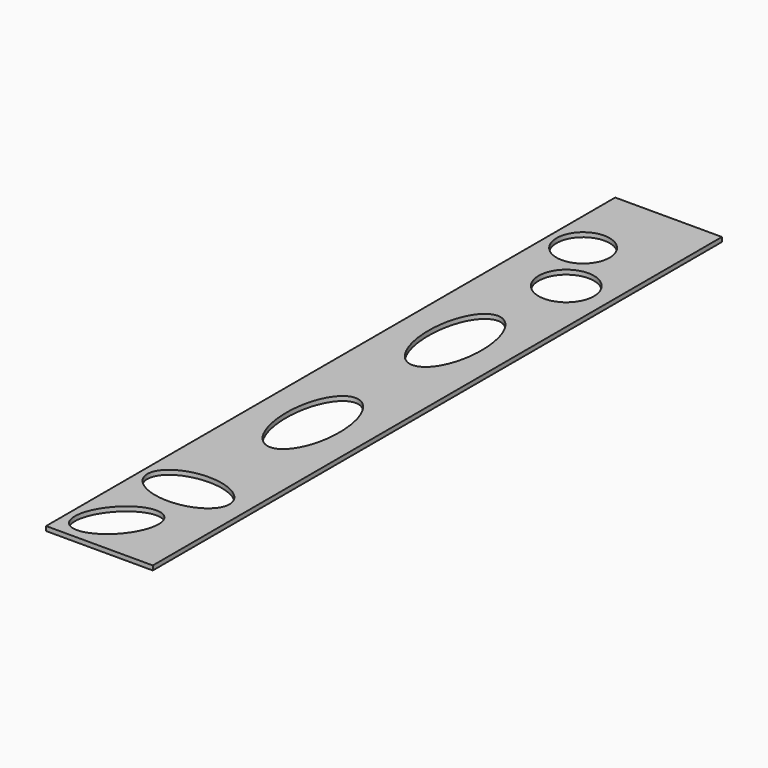
from build123d import *

# Parameters (mm, degrees)
F1_DEPTH = 25
F2_R     = 149.2178316073
F2_R_2   = 155.5206499211
F3_DEPTH = 25


with BuildPart() as f1:
    # F0 (on Top) → F1 (new body)
    with BuildSketch(Plane.XY):
        with BuildLine():
            Line((0, 3000), (0, 0))
            Line((0, 0), (600, 0))
            Line((600, 0), (600, 186.544239521))
            ThreePointArc((600, 186.544239521), (450, 336.544239521), (600, 486.544239521))
            Line((600, 486.544239521), (600, 583.9368104935))
            ThreePointArc((600, 583.9368104935), (450, 733.9368104935), (600, 883.9368104935))
            Line((600, 883.9368104935), (600, 4000))
            Line((600, 4000), (0, 4000))
            Line((0, 4000), (0, 3100))
            Line((0, 3100), (150, 3100))
            ThreePointArc((150, 3100), (250, 3000), (150, 2900))
            ThreePointArc((150, 2900), (79.2893218813, 2929.2893218813), (50, 3000))
            Line((50, 3000), (0, 3000))
        make_face()
        with BuildLine():
            add(Edge.make_bspline(
                [(300, 1800), (40.1923788647, 1800), (170.0961894323, 1350), (300, 900), (429.9038105677, 1350), (559.8076211353, 1800), (300, 1800)],
                knots=[0, 0, 0, 2.0943951024, 2.0943951024, 4.1887902048, 4.1887902048, 6.2831853072, 6.2831853072, 6.2831853072], degree=2, weights=[1, 0.5, 1, 0.5, 1, 0.5, 1]))
        make_face(mode=Mode.SUBTRACT)
        with BuildLine():
            add(Edge.make_bspline(
                [(300, 2800), (40.1923788647, 2800), (170.0961894323, 2350), (300, 1900), (429.9038105677, 2350), (559.8076211353, 2800), (300, 2800)],
                knots=[0, 0, 0, 2.0943951024, 2.0943951024, 4.1887902048, 4.1887902048, 6.2831853072, 6.2831853072, 6.2831853072], degree=2, weights=[1, 0.5, 1, 0.5, 1, 0.5, 1]))
        make_face(mode=Mode.SUBTRACT)
        with BuildLine():
            Line((0, 3100), (0, 3000))
            Line((0, 3000), (50, 3000))
            ThreePointArc((50, 3000), (79.2893218813, 2929.2893218813), (150, 2900))
            ThreePointArc((150, 2900), (250, 3000), (150, 3100))
            Line((150, 3100), (0, 3100))
        make_face()
        with BuildLine():
            ThreePointArc((600, 883.9368104935), (450, 733.9368104935), (600, 583.9368104935))
            Line((600, 583.9368104935), (600, 883.9368104935))
        make_face()
        with BuildLine():
            ThreePointArc((600, 486.544239521), (450, 336.544239521), (600, 186.544239521))
            Line((600, 186.544239521), (600, 486.544239521))
        make_face()
    extrude(amount=F1_DEPTH)

    # F2 (on face) → F3 (cut)
    with BuildSketch(Plane.XY.offset(25)):
        with Locations((189.0205293894, 3538.0737781525)):
            Circle(F2_R)
        with Locations((357.7063381672, 3209.136724472)):
            Circle(F2_R_2)
        with BuildLine():
            add(Edge.make_bspline(
                [(499.7054040432, 664.688706398), (499.7054040432, 915.6612949131), (153.3303409815, 790.1750006556), (-193.0447220802, 664.688706398), (153.3303409815, 539.2024121405), (499.7054040432, 413.7161178829), (499.7054040432, 664.688706398)],
                knots=[0, 0, 0, 2.0943951024, 2.0943951024, 4.1887902048, 4.1887902048, 6.2831853072, 6.2831853072, 6.2831853072], degree=2, weights=[1, 0.5, 1, 0.5, 1, 0.5, 1]))
        make_face()
        with BuildLine():
            add(Edge.make_bspline(
                [(343.4969782829, 399.8137414455), (173.7425255404, 541.2757388417), (54.8698344641, 226.0447587403), (-64.0028566122, -89.1862213612), (224.6242872066, 84.5827613441), (513.2514310254, 258.3517440494), (343.4969782829, 399.8137414455)],
                knots=[0, 0, 0, 2.0943951024, 2.0943951024, 4.1887902048, 4.1887902048, 6.2831853072, 6.2831853072, 6.2831853072], degree=2, weights=[1, 0.5, 1, 0.5, 1, 0.5, 1]))
        make_face()
    extrude(amount=-F3_DEPTH, mode=Mode.SUBTRACT)


solid = f1.part
